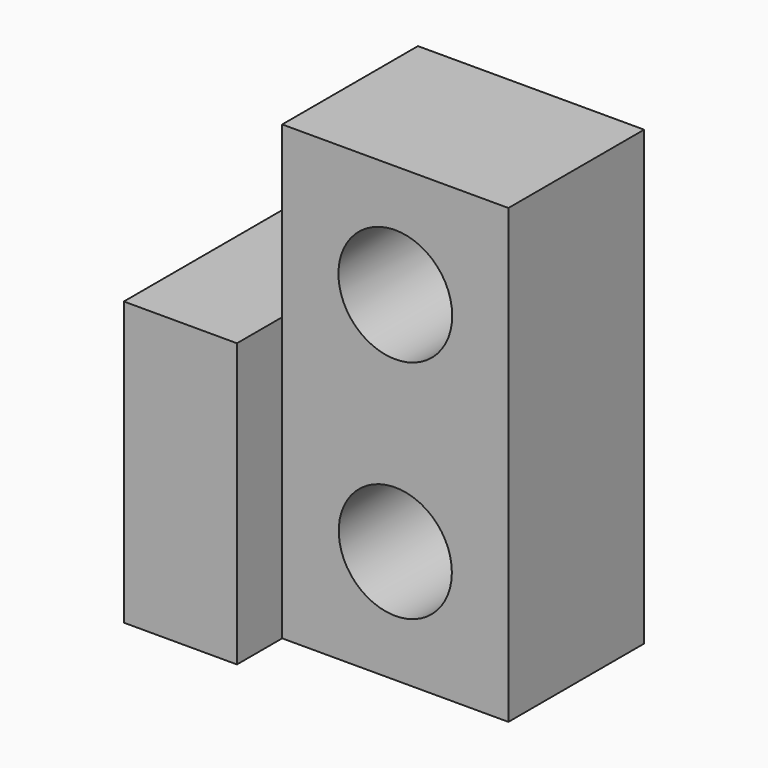
from build123d import *

# Parameters (mm, degrees)
F1_DEPTH = 15
F0_W     = 10
F0_H     = 25
F2_DEPTH = 20
F3_R     = 5
F3_R_2   = 5.029307
F4_DEPTH = 15


with BuildPart() as f1:
    # F0 (on Front) → F1 (new body)
    with BuildSketch(Plane.XZ):
        Polygon((0, 25), (0, 0), (20, 0), (20, 40), (0, 40), align=None)
    extrude(amount=F1_DEPTH)

    # F0 (on Front) → F2 (join)
    with BuildSketch(Plane.XZ):
        with Locations((-5, 12.5)):
            Rectangle(F0_W, F0_H)
    extrude(amount=F2_DEPTH)

    # F3 (on face) → F4 (cut)
    with BuildSketch(Plane.XZ.offset(15)):
        with Locations((10, 10)):
            Circle(F3_R)
        with Locations((10, 30)):
            Circle(F3_R_2)
    extrude(amount=-F4_DEPTH, mode=Mode.SUBTRACT)


solid = f1.part
